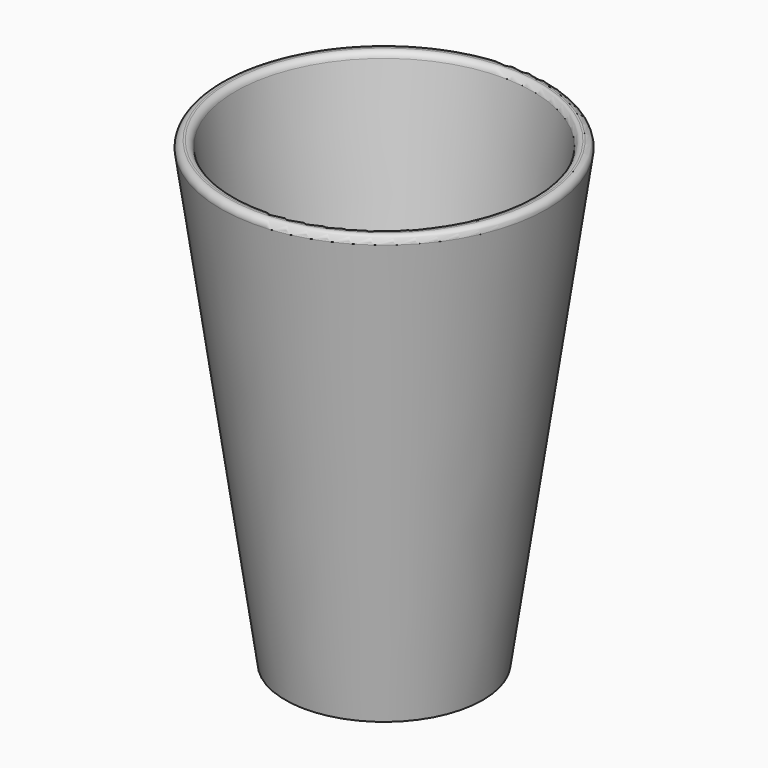
from build123d import *

# Parameters (mm, degrees)
FILLET_R = 1


with BuildPart() as obj1:
    # Cone001 → Cone001 (revolve)
    with BuildSketch(Plane(origin=(0, 0, 2), x_dir=(1, 0, 0), z_dir=(0, -1, 0))):
        Polygon((0, 0), (13, 0), (23, 70), (0, 70), align=None)
    revolve(axis=Axis((0, 0, 2), (0, 0, 1)))


with BuildPart() as obj2:
    # Cone → Cone (revolve)
    with BuildSketch(Plane.XZ):
        Polygon((0, 0), (15, 0), (25, 70), (0, 70), align=None)
    revolve(axis=Axis((0, 0, 0), (0, 0, 1)))

    # Cut: cut obj1
    add(obj1.part, mode=Mode.SUBTRACT)

    # Fillet
    fillet_edges = [obj2.edges().sort_by_distance(p)[0] for p in [
        (-25, 0, 70),
        (-22.714286, 0, 70),
    ]]
    fillet(fillet_edges, radius=FILLET_R)


solid = obj2.part
